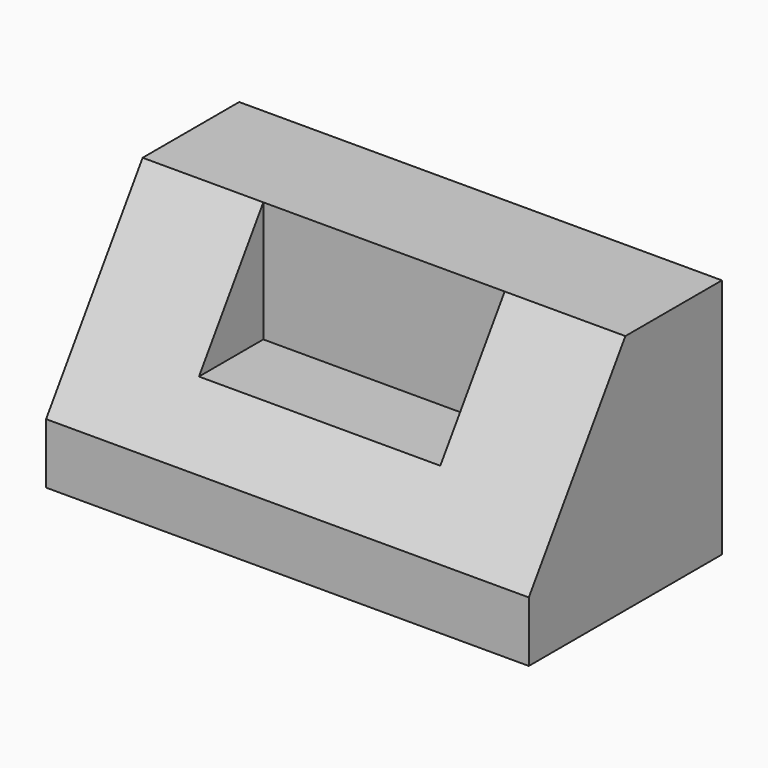
from build123d import *

# Parameters (mm, degrees)
F0_W     = 203.2
F0_H     = 101.6
F1_DEPTH = 101.6
F3_DEPTH = 203.2
F4_W     = 101.6
F4_H     = 40.903057
F5_DEPTH = 50.8


with BuildPart() as f1:
    # F0 (on Front) → F1 (new body)
    with BuildSketch(Plane.XZ):
        with Locations((-4.904039, 9.921888)):
            Rectangle(F0_W, F0_H)
    extrude(amount=F1_DEPTH)

    # F2 (on face) → F3 (cut)
    with BuildSketch(Plane.YZ.offset(96.695961)):
        Polygon((-101.6, 60.721888), (-101.6, -15.478112), (-50.8, 60.721888), align=None)
    extrude(amount=-F3_DEPTH, mode=Mode.SUBTRACT)

    # F4 (on face) → F5 (cut)
    with BuildSketch(Plane.XY.offset(60.721888)):
        with Locations((-4.904039, -71.251529)):
            Rectangle(F4_W, F4_H)
    extrude(amount=-F5_DEPTH, mode=Mode.SUBTRACT)


solid = f1.part
